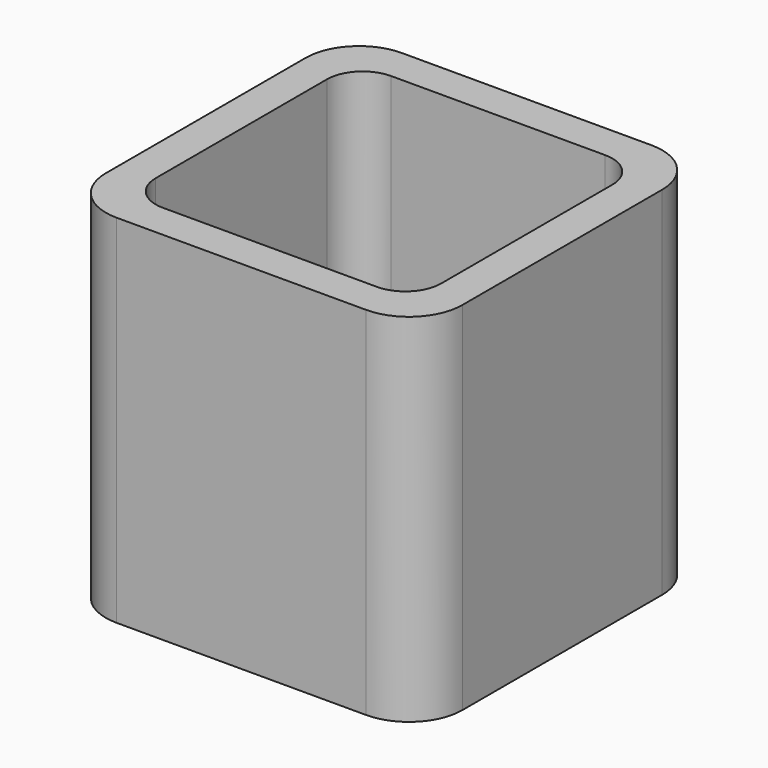
from build123d import *

# Parameters (mm, degrees)
EXTRUDE_DEPTH = 50


with BuildPart() as part:
    # Sketch → Extrude (new body)
    with BuildSketch(Plane.XY):
        with BuildLine():
            Line((-17.5, 25), (17.5, 25))
            ThreePointArc((25, 17.5), (22.803301, 22.803301), (17.5, 25))
            Line((25, 17.5), (25, -17.5))
            ThreePointArc((17.5, -25), (22.803301, -22.803301), (25, -17.5))
            Line((17.5, -25), (-17.5, -25))
            ThreePointArc((-25, -17.5), (-22.803301, -22.803301), (-17.5, -25))
            Line((-25, -17.5), (-25, 17.5))
            ThreePointArc((-17.5, 25), (-22.803301, 22.803301), (-25, 17.5))
        make_face()
        with BuildLine():
            Line((-15, 20), (15, 20))
            ThreePointArc((20, 15), (18.535534, 18.535534), (15, 20))
            Line((20, 15), (20, -15))
            ThreePointArc((15, -20), (18.535534, -18.535534), (20, -15))
            Line((15, -20), (-15, -20))
            ThreePointArc((-20, -15), (-18.535534, -18.535534), (-15, -20))
            Line((-20, -15), (-20, 15))
            ThreePointArc((-15, 20), (-18.535534, 18.535534), (-20, 15))
        make_face(mode=Mode.SUBTRACT)
    extrude(amount=EXTRUDE_DEPTH)


solid = part.part
